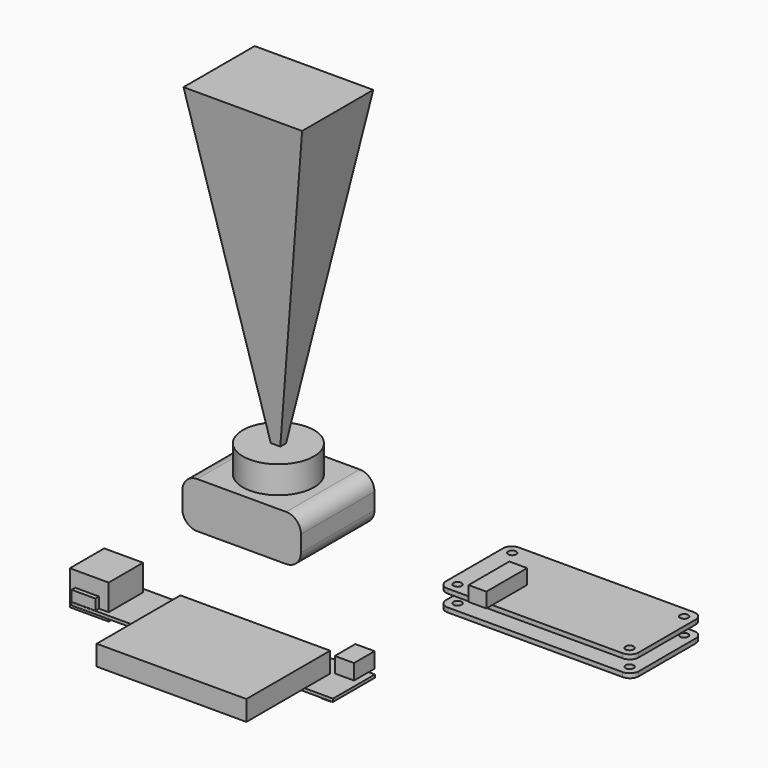
from build123d import *

# Parameters (mm, degrees)
F0_W      = 40
F0_H      = 31
F1_DEPTH  = 15.5
F2_R      = 5
F3_R      = 12
F4_DEPTH  = 9.2
F5_W      = 88.2
F5_H      = 17.7
F6_DEPTH  = 1
F7_W      = 50.5
F7_H      = 2.8
F7_H_2    = 10.7
F8_DEPTH  = 6.8
F9_DEPTH  = 21.8
F10_W     = 1.8
F10_H     = 14.5
F10_W_2   = 11.3
F11_DEPTH = 8.8
F12_DEPTH = 2.8
F13_W     = 6.5
F13_H     = 2.5
F13_H_2   = 6.1723221527
F14_DEPTH = 5.2
F15_W     = 3.0176565558
F15_H     = 7.5164381415
F16_DEPTH = 1.7
F18_DEPTH = 1.5
F21_DEPTH = 1.5
F22_D     = 2.75
F22_2_D   = 2.75
F23_W     = 51.5
F23_H     = 5
F24_DEPTH = 6
F25_W     = 6
F25_H     = 2.5
F25_H_2   = 14.7
F26_DEPTH = 5
F30_W     = 40
F30_H     = 30
F32_W     = 8
F32_H     = 3.6
F33_W     = 8
F33_H     = 3.6
F34_DEPTH = 1.5


with BuildPart() as f1:
    # F0 (on Top) → F1 (new body)
    with BuildSketch(Plane.XY):
        with Locations((-34.2253973186, 34.3170047009)):
            Rectangle(F0_W, F0_H)
    extrude(amount=F1_DEPTH)

    # F2
    f2_edges = [f1.edges().sort_by_distance(p)[0] for p in [
        (-14.225397, 34.317005, 15.5),
        (-54.225397, 34.317005, 15.5),
        (-54.225397, 34.317005, 0),
        (-14.225397, 34.317005, 0),
    ]]
    fillet(f2_edges, radius=F2_R)

    # F3 (on face) → F4 (join)
    with BuildSketch(Plane.XY.offset(15.5)):
        with Locations((-34.2253973186, 34.3170047009)):
            Circle(F3_R)
    extrude(amount=F4_DEPTH)

    # F30 (on offset) → F31 section 0
    with BuildSketch(Plane.XY.offset(130), mode=Mode.PRIVATE) as f31_s0:
        with Locations((-34.2253973186, 34.3170047009)):
            Rectangle(F30_W, F30_H)
    loft([f31_s0.sketch, Vertex(-34.2253973186, 34.3170047009, 15.5)])


with BuildPart() as f6:
    # F5 (on Top) → F6 (new body)
    with BuildSketch(Plane.XY):
        with Locations((-4.5524329334, -26.0675935584)):
            Rectangle(F5_W, F5_H)
    extrude(amount=F6_DEPTH)

    # F7 (on face) → F8 (join)
    with BuildSketch(Plane.XY.offset(1)):
        with Locations((4.7975670666, -36.3175935584)):
            Rectangle(F7_W, F7_H)
        with Locations((4.7975670666, -29.5675935584)):
            Rectangle(F7_W, F7_H_2)
    extrude(amount=F8_DEPTH)

    # F9 (add): a face of the model
    f9_faces = [f6.faces().sort_by_distance(p)[0] for p in [
        (4.7975670666, -37.7175935584, 4.4),
    ]]
    extrude(f9_faces, amount=F9_DEPTH)

    # F10 (on face) → F11 (join)
    with BuildSketch(Plane.XY.offset(1)):
        with Locations((-49.5524329334, -26.0675935584)):
            Rectangle(F10_W, F10_H)
        with Locations((-43.0024329334, -26.0675935584)):
            Rectangle(F10_W_2, F10_H)
    extrude(amount=F11_DEPTH)

    # F10 (on face) → F12 (join)
    with BuildSketch(Plane.XY.offset(1)):
        with Locations((-49.5524329334, -26.0675935584)):
            Rectangle(F10_W, F10_H)
        with Locations((-43.0024329334, -26.0675935584)):
            Rectangle(F10_W_2, F10_H)
    extrude(amount=-F12_DEPTH)

    # F13 (on face) → F14 (join)
    with BuildSketch(Plane.XY.offset(1)):
        with Locations((34.1975670666, -15.9675935584)):
            Rectangle(F13_W, F13_H)
        with Locations((34.1975670666, -20.3037546347)):
            Rectangle(F13_W, F13_H_2)
    extrude(amount=F14_DEPTH)

    # F15 (on face) → F16 (join)
    with BuildSketch(Plane(origin=(0, 0, 0), x_dir=(1, 0, 0), z_dir=(0, 0, -1))):
        with Locations((35.4387387887, 28.8513666019)):
            Rectangle(F15_W, F15_H)
    extrude(amount=F16_DEPTH)

    # F32 (on face) + F33 (on face) → F34 (join, symmetric)
    with BuildSketch(Plane.XZ.offset(33.3175935584)):
        with Locations((-44.6524329334, 2.8)):
            Rectangle(F32_W, F32_H)
    with BuildSketch(Plane(origin=(0, -18.8175935584, 0), x_dir=(-1, 0, 0), z_dir=(0, 1, 0))):
        with Locations((44.6524329334, 2.8)):
            Rectangle(F33_W, F33_H)
    extrude(amount=F34_DEPTH, both=True, dir=(0, -1, 0))


with BuildPart() as f18:
    # F17 (on Top) → F18 (new body)
    with BuildSketch(Plane.XY):
        with BuildLine():
            Line((90.2862745896, 53.8279704224), (31.2862745896, 53.8279704224))
            ThreePointArc((31.2862745896, 53.8279704224), (29.164954246, 52.949290766), (28.2862745896, 50.8279704224))
            Line((28.2862745896, 50.8279704224), (28.2862745896, 26.8279704224))
            ThreePointArc((28.2862745896, 26.8279704224), (29.164954246, 24.7066500788), (31.2862745896, 23.8279704224))
            Line((31.2862745896, 23.8279704224), (90.2862745896, 23.8279704224))
            ThreePointArc((90.2862745896, 23.8279704224), (92.4075949332, 24.7066500788), (93.2862745896, 26.8279704224))
            Line((93.2862745896, 26.8279704224), (93.2862745896, 50.8279704224))
            ThreePointArc((93.2862745896, 50.8279704224), (92.4075949332, 52.949290766), (90.2862745896, 53.8279704224))
        make_face()
    extrude(amount=F18_DEPTH)

    # F22 (through all)
    with Locations(Plane(origin=(0, 0, 0), x_dir=(1, 0, 0), z_dir=(0, 0, -1))):
        with Locations((31.7862745896, -50.3279704224), (31.7862745896, -27.3279704224), (89.7862745896, -27.3279704224), (89.7862745896, -50.3279704224)):
            Hole(F22_D / 2)



with BuildPart() as f21:
    # F20 (on offset) → F21 (new body)
    with BuildSketch(Plane.XY.offset(5.6)):
        with BuildLine():
            Line((90.2862745896, 53.8279704224), (31.2862745896, 53.8279704224))
            ThreePointArc((31.2862745896, 53.8279704224), (29.164954246, 52.949290766), (28.2862745896, 50.8279704224))
            Line((28.2862745896, 50.8279704224), (28.2862745896, 26.8279704224))
            ThreePointArc((28.2862745896, 26.8279704224), (29.164954246, 24.7066500788), (31.2862745896, 23.8279704224))
            Line((31.2862745896, 23.8279704224), (90.2862745896, 23.8279704224))
            ThreePointArc((90.2862745896, 23.8279704224), (92.4075949332, 24.7066500788), (93.2862745896, 26.8279704224))
            Line((93.2862745896, 26.8279704224), (93.2862745896, 50.8279704224))
            ThreePointArc((93.2862745896, 50.8279704224), (92.4075949332, 52.949290766), (90.2862745896, 53.8279704224))
        make_face()
    extrude(amount=F21_DEPTH)

    # F22#2 (through all)
    with Locations(Plane(origin=(0, 0, 0), x_dir=(1, 0, 0), z_dir=(0, 0, -1))):
        with Locations((31.7862745896, -50.3279704224), (31.7862745896, -27.3279704224), (89.7862745896, -27.3279704224), (89.7862745896, -50.3279704224)):
            Hole(F22_2_D / 2)


with BuildPart() as f18_1:
    add(f18.part)

    add(f21.part)  # F24 merges F21
    # F23 (on face) → F24 (join)
    with BuildSketch(Plane(origin=(0, 0, 5.6), x_dir=(1, 0, 0), z_dir=(0, 0, -1))):
        with Locations((60.7862745896, -49.8279704224)):
            Rectangle(F23_W, F23_H)
    extrude(amount=F24_DEPTH)

    # F25 (on face) → F26 (join)
    with BuildSketch(Plane.XY.offset(7.1)):
        with Locations((43.2862745896, 22.5779704224)):
            Rectangle(F25_W, F25_H)
        with Locations((43.2862745896, 31.1779704224)):
            Rectangle(F25_W, F25_H_2)
    extrude(amount=F26_DEPTH)


solid = Compound([f1.part, f6.part, f18_1.part])
